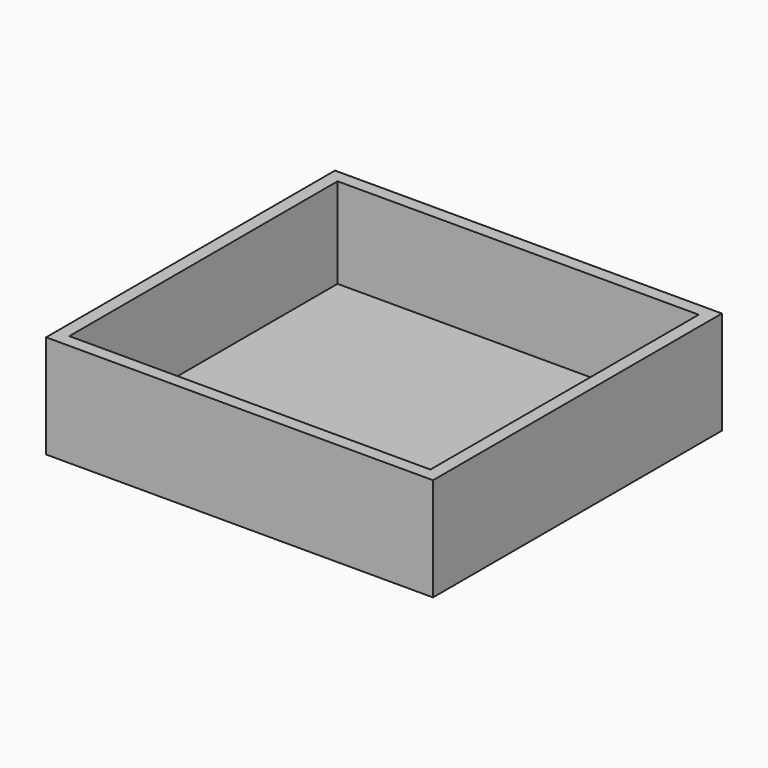
from build123d import *

# Parameters (mm, degrees)
F0_W     = 177.8
F0_H     = 165.1
F1_DEPTH = 6.35
F2_W     = 190.5
F2_H     = 177.8
F2_W_2   = 177.8
F2_H_2   = 165.1
F3_DEPTH = 50.8


with BuildPart() as f1:
    # F0 (on Top) → F1 (new body)
    with BuildSketch(Plane.XY):
        Rectangle(F0_W, F0_H)
    extrude(amount=F1_DEPTH)

    # F2 (on Top) → F3 (join)
    with BuildSketch(Plane.XY):
        Rectangle(F2_W, F2_H)
        Rectangle(F2_W_2, F2_H_2, mode=Mode.SUBTRACT)
    extrude(amount=F3_DEPTH)


solid = f1.part
